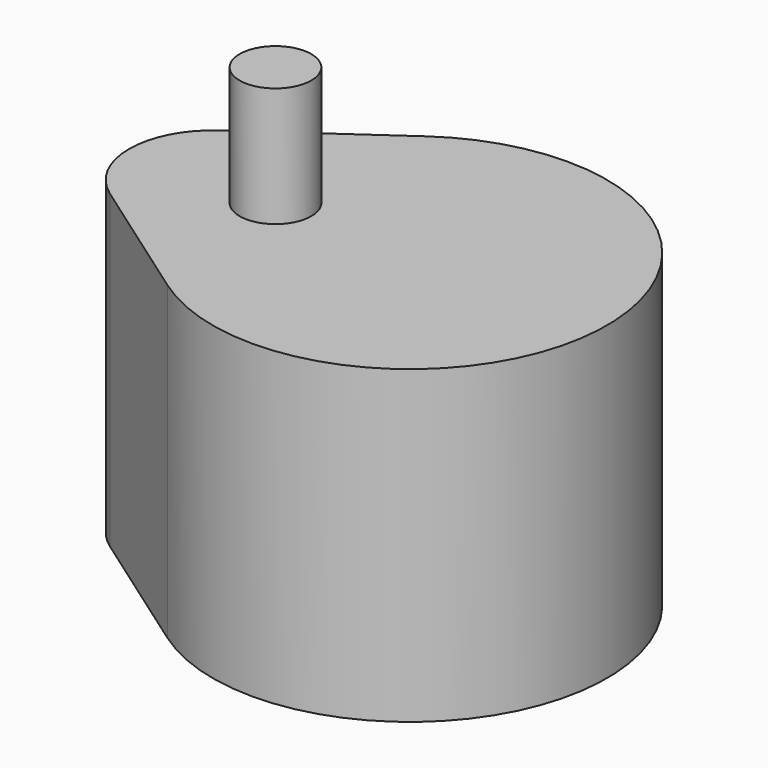
from build123d import *

# Parameters (mm, degrees)
F1_DEPTH = 330.2
F2_R     = 38.1
F3_DEPTH = 127


with BuildPart() as f1:
    # F0 (on Top) → F1 (new body)
    with BuildSketch(Plane.XY):
        with BuildLine():
            Line((-216.284848, -72.686459), (-76.2, -171.332367))
            ThreePointArc((-76.2, -171.332367), (254, 0), (-76.2, 171.332367))
            Line((-76.2, 171.332367), (-216.284848, 72.686459))
            ThreePointArc((-216.284848, 72.686459), (-254, 0), (-216.284848, -72.686459))
        make_face()
    extrude(amount=F1_DEPTH)

    # F2 (on face) → F3 (join)
    with BuildSketch(Plane.XY.offset(330.2)):
        with Locations((-98.425, 0)):
            Circle(F2_R)
    extrude(amount=F3_DEPTH)


solid = f1.part
